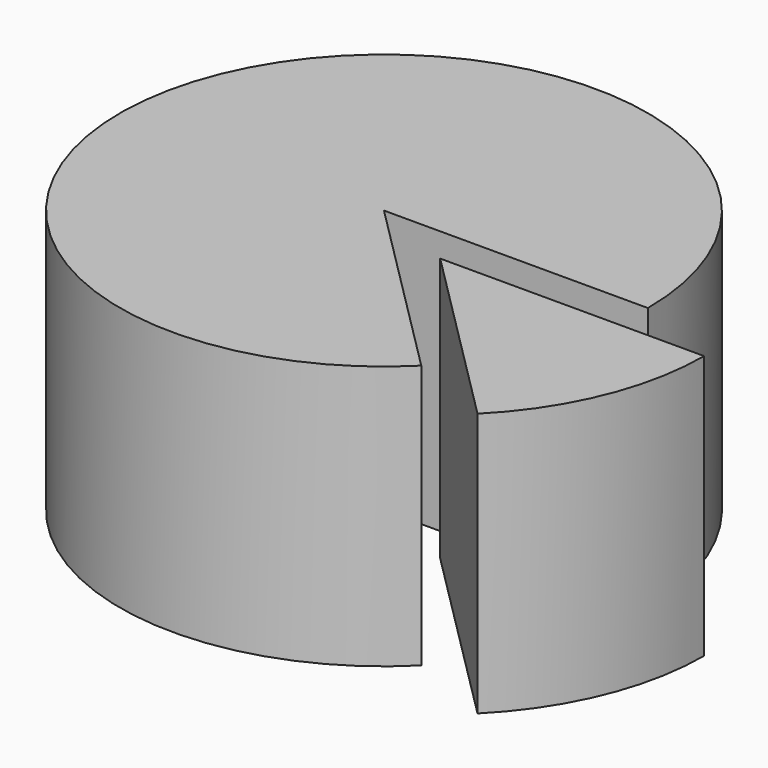
from build123d import *

# Parameters (mm, degrees)
CYLINDER_W                  = 2
CYLINDER_H                  = 2
CYLINDER_ANGLE              = 315
CYLINDER001_W               = 2
CYLINDER001_H               = 2
CYLINDER001_ANGLE           = 45
CYLINDER001_PLACEMENT_ANGLE = 315


with BuildPart() as past_s:
    # Cylinder → Cylinder (revolve)
    with BuildSketch(Plane.XZ):
        with Locations((1, 1)):
            Rectangle(CYLINDER_W, CYLINDER_H)
    revolve(axis=Axis((0, 0, 0), (0, 0, 1)), revolution_arc=CYLINDER_ANGLE)


with BuildPart() as obj1:
    # Cylinder001 → Cylinder001 (revolve)
    with BuildSketch(Plane.XZ):
        with Locations((1, 1)):
            Rectangle(CYLINDER001_W, CYLINDER001_H)
    revolve(axis=Axis((0, 0, 0), (0, 0, 1)), revolution_arc=CYLINDER001_ANGLE)


with BuildPart() as obj1_1:
    # Cylinder001 placement: moved
    add(obj1.part.moved(Location((0.644365, -0.272792, 0))).rotate(Axis((0.644365, -0.272792, 0), (0, 0, 1)), CYLINDER001_PLACEMENT_ANGLE))


solid = Compound([past_s.part, obj1_1.part])
